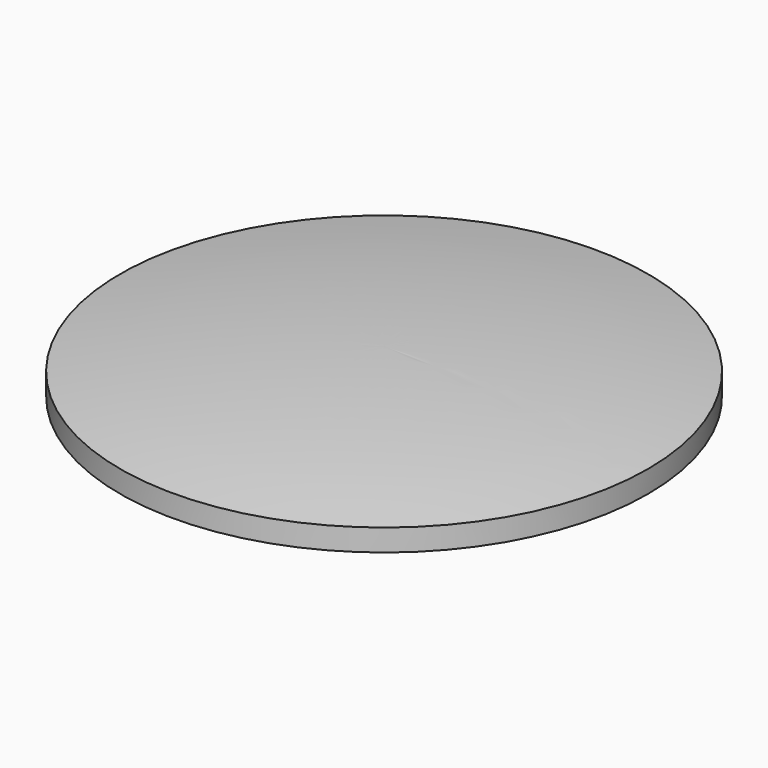
from build123d import *


with BuildPart() as f1:
    # F0 (on Front) → F1 (revolve)
    with BuildSketch(Plane.XZ):
        with BuildLine():
            Line((33.762869, 1.5875), (36.5125, 0))
            Line((36.5125, 0), (38.1, 0))
            Line((38.1, 0), (38.1, 3.175))
            ThreePointArc((38.1, 3.175), (19.116031, 5.554877), (0, 6.35))
            Line((0, 6.35), (0, 1.5875))
            Line((0, 1.5875), (33.762869, 1.5875))
        make_face()
    revolve(axis=Axis((0, 0, 3.96875), (0, 0, 1)))


solid = f1.part
